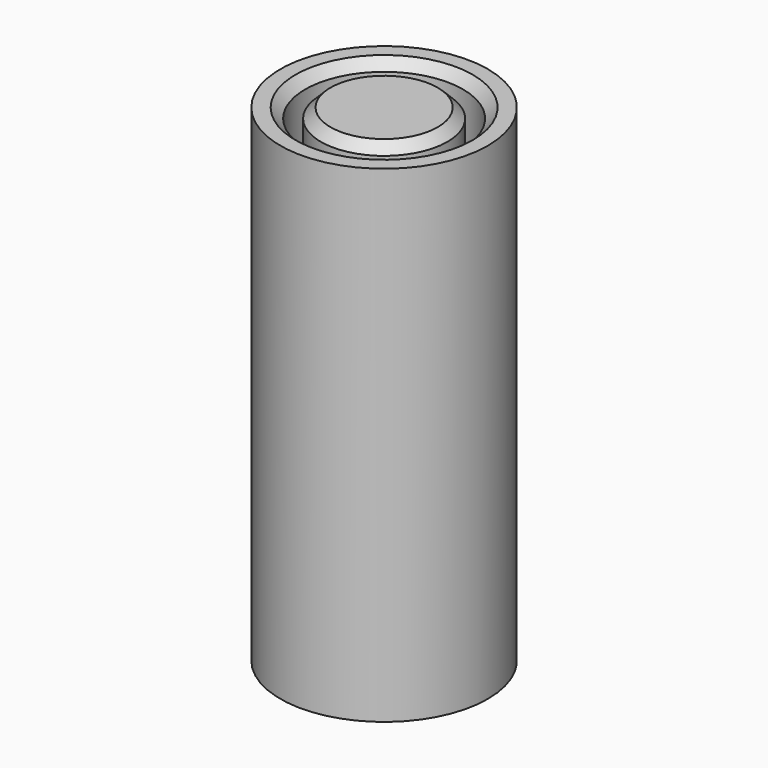
from build123d import *

# Parameters (mm, degrees)
F0_R     = 10.65
F0_R_2   = 8.1
F1_DEPTH = 25
F0_R_3   = 6.5
F2_DEPTH = 2.5
F3_DEPTH = 25
F4_SIZE  = 1


with BuildPart() as f1:
    # F0 (on Top) → F1 (new body, symmetric)
    with BuildSketch(Plane.XY):
        Circle(F0_R)
        Circle(F0_R_2, mode=Mode.SUBTRACT)
    extrude(amount=F1_DEPTH, both=True)

    # F0 (on Top) → F2 (join, symmetric)
    with BuildSketch(Plane.XY):
        Circle(F0_R_2)
        Circle(F0_R_3, mode=Mode.SUBTRACT)
    extrude(amount=F2_DEPTH, both=True)

    # F0 (on Top) → F3 (join, symmetric)
    with BuildSketch(Plane.XY):
        Circle(F0_R_3)
    extrude(amount=F3_DEPTH, both=True)

    # F4
    f4_edges = [f1.edges().sort_by_distance(p)[0] for p in [
        (-8.1, 0, -25),
        (-6.5, 0, -25),
        (-8.1, 0, 25),
        (-6.5, 0, 25),
    ]]
    chamfer(f4_edges, length=F4_SIZE)


solid = f1.part
